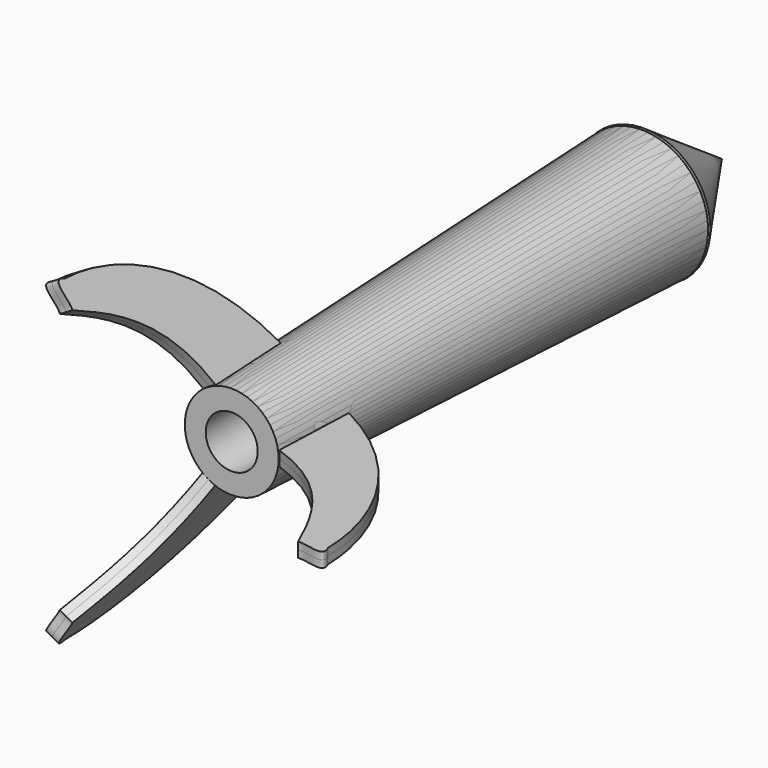
from build123d import *

# Parameters (mm, degrees)
F3_DEPTH = 2.5
F4_COUNT = 3


with BuildPart() as f1:
    # F0 (on Top) → F1 (revolve)
    with BuildSketch(Plane.XY):
        Polygon((0, 82.4975505624), (0, 76.1927291751), (0, -27.6052709669), (9, -27.6052709669), (9, -95.6052709669), (16.2472296506, -95.6052709669), (23.0072829872, 81.7341282964), (16.1803665971, 81.9943655539), (16.1803665971, 86.7804512382), (13.2002696828, 86.8940504393), (13.2002696828, 81.9943655539), align=None)
    revolve(axis=Axis((0, -60.0376240909, 0), (0, -1, 0)))

    # F2 (on Top) → F3 (join, symmetric)
    with BuildSketch(Plane.XY):
        with BuildLine():
            Line((17.0057397336, -66.2791207433), (15.9516688436, -95.0903818011))
            add(Edge.make_bspline(
                [(15.9516688436, -95.0903818011), (39.5200625062, -103.0901968479), (47.1943803132, -119.7931095958), (53.5144023597, -133.7874382734)],
                knots=[0, 0, 0, 0, 53.9297796104, 53.9297796104, 53.9297796104, 53.9297796104], degree=3))
            add(Edge.make_bspline(
                [(53.5144023597, -133.7874382734), (56.3734583557, -133.0350587765), (64.8001506925, -137.3988837004), (62.0915703475, -131.5302997828)],
                knots=[0, 0, 0, 0, 8.8691873843, 8.8691873843, 8.8691873843, 8.8691873843], degree=3))
            add(Edge.make_bspline(
                [(17.0057397336, -66.2791207433), (49.0001030266, -82.7758461237), (61.6401396692, -110.3130802512), (62.0915703475, -131.5302997828)],
                knots=[0, 0, 0, 0, 79.3123476402, 79.3123476402, 79.3123476402, 79.3123476402], degree=3))
        make_face()
    extrude(amount=F3_DEPTH, both=True)


with BuildPart() as f1b:
    # F0 (on Top) → F1, piece 2 (revolve)
    with BuildSketch(Plane.XY):
        Polygon((0, 116.4579316974), (0, 94.9114635587), (12.9672705923, 86.3929763436), (12.9672705923, 87.2521043798), (16.8242119253, 87.1050804853), (16.8242119253, 86.7804512382), (16.8242119253, 82.5417265296), (23.1507569551, 82.5417265296), align=None)
    revolve(axis=Axis((0, -60.0376240909, 0), (0, -1, 0)))


with BuildPart() as f4_1:
    # F4: instance of F1
    add(f1.part.rotate(Axis((0, -60.0376240909, 0), (0, -1, 0)), 1 * 360 / F4_COUNT))


with BuildPart() as f4_2:
    # F4: instance of F1
    add(f1.part.rotate(Axis((0, -60.0376240909, 0), (0, -1, 0)), 2 * 360 / F4_COUNT))


solid = Compound([f1.part, f1b.part, f4_1.part, f4_2.part])
